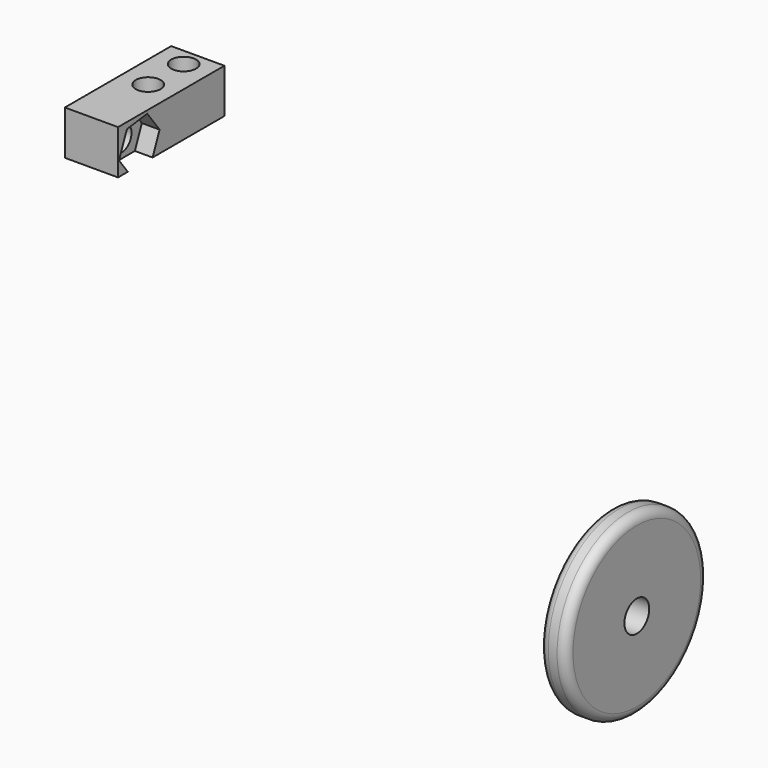
from build123d import *

# Parameters (mm, degrees)
F0_R      = 10
F1_DEPTH  = 1.5
F2_R      = 1.75
F3_DEPTH  = 3.001
F4_W      = 6
F4_H      = 5
F5_DEPTH  = 15
F6_R      = 1.4
F7_DEPTH  = 49.52649
F9_R      = 1
F8_R      = 1.4
F10_DEPTH = 6.001
F11_DEPTH = 2


with BuildPart() as f1:
    # F0 (on Right) → F1 (new body, symmetric)
    with BuildSketch(Plane.YZ):
        Circle(F0_R)
    extrude(amount=F1_DEPTH, both=True)

    # F2 (on face) → F3 (cut, through all)
    with BuildSketch(Plane(origin=(-1.5, 0, 0), x_dir=(0, -1, 0), z_dir=(-1, 0, 0))):
        Circle(F2_R)
    extrude(amount=-F3_DEPTH, mode=Mode.SUBTRACT)

    # F9
    f9_edges = [f1.edges().sort_by_distance(p)[0] for p in [
        (1.5, -10, 0),
        (-1.5, -10, 0),
    ]]
    fillet(f9_edges, radius=F9_R)


with BuildPart() as f5:
    # F4 (on Front) → F5 (new body)
    with BuildSketch(Plane.XZ):
        with Locations((-48.030434, 37.02549)):
            Rectangle(F4_W, F4_H)
    extrude(amount=F5_DEPTH)

    # F6 (on face) → F7 (cut, through all)
    with BuildSketch(Plane.XY.offset(39.52549)):
        with Locations((-48.030434, -2)):
            Circle(F6_R)
        with Locations((-48.030434, -7)):
            Circle(F6_R)
    extrude(amount=-F7_DEPTH, mode=Mode.SUBTRACT)

    # F8 (on face) → F10 (cut, through all)
    with BuildSketch(Plane.YZ.offset(-45.030434)):
        with Locations((-12, 36.52549)):
            Circle(F8_R)
    extrude(amount=-F10_DEPTH, mode=Mode.SUBTRACT)

    # F8 (on face) → F11 (cut)
    with BuildSketch(Plane.YZ.offset(-45.030434)):
        Polygon((-14.863833, 36.162456), (-13.620201, 34.52549), (-10.128303, 34.52549), (-9.136167, 36.888525), (-10.88248, 39.18716), (-13.746313, 38.824126), align=None)
        with Locations((-12, 36.52549)):
            Circle(F8_R, mode=Mode.SUBTRACT)
    extrude(amount=-F11_DEPTH, mode=Mode.SUBTRACT)


solid = Compound([f1.part, f5.part])
